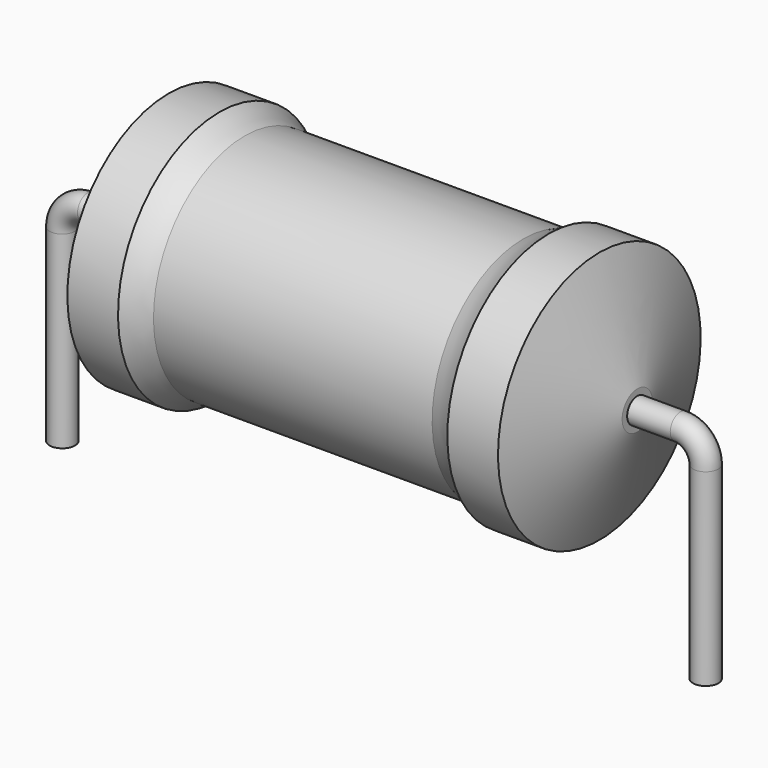
from build123d import *

# Parameters (mm, degrees)
SKETCH_R = 0.45


with BuildPart() as revolution:
    # Sketch002 → Revolution (revolve)
    with BuildSketch(Plane.XZ):
        with BuildLine():
            Line((3.78, 9.1), (5.58, 9.1))
            ThreePointArc((5.58, 9.1), (6.011378, 8.837757), (6.48, 8.65))
            Line((6.48, 8.65), (16.38, 8.65))
            ThreePointArc((16.38, 8.65), (16.848622, 8.837757), (17.28, 9.1))
            Line((17.28, 9.1), (19.08, 9.1))
            ThreePointArc((20.43, 5.275), (19.770809, 7.19308), (19.08, 9.1))
            Line((20.43, 4.6), (20.43, 5.275))
            Line((2.43, 4.6), (20.43, 4.6))
            Line((2.43, 4.6), (2.43, 5.275))
            ThreePointArc((3.78, 9.1), (3.089191, 7.19308), (2.43, 5.275))
        make_face()
    revolve(axis=Axis((2.43, 0, 4.6), (1, 0, 0)))


with BuildPart() as sweep_body:
    # Sweep: sweep along a path in Sketch001
    with BuildLine(Plane.XZ) as sweep_path:
        Line((0, -3), (0, 3.7))
        ThreePointArc((0, 3.7), (0.2636, 4.336392), (0.899988, 4.6))
        Line((0.899988, 4.6), (21.96, 4.6))
        ThreePointArc((21.96, 4.6), (22.596396, 4.336396), (22.86, 3.7))
        Line((22.86, 3.7), (22.86, -3))
    # Sketch → Sweep (sweep)
    with BuildSketch(Plane.XY.offset(-2)):
        Circle(SKETCH_R)
    sweep(path=sweep_path.line)


solid = Compound([revolution.part, sweep_body.part])
